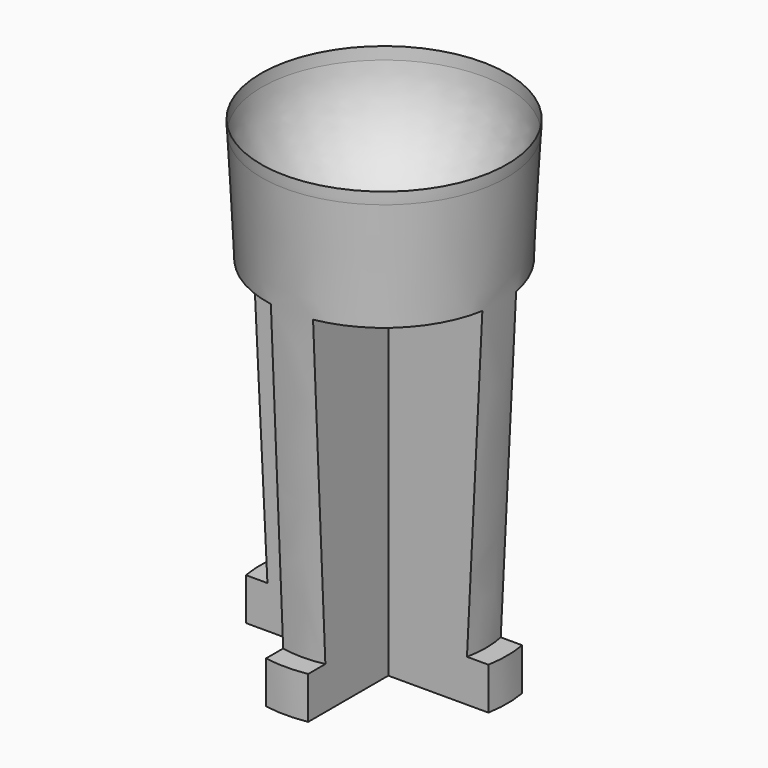
from build123d import *

# Parameters (mm, degrees)
F3_DEPTH = 25


with BuildPart() as f1:
    # F0 (on Front) → F1 (revolve)
    with BuildSketch(Plane.XZ):
        with BuildLine():
            Line((-8.708457, -0.851632), (-8.75, 0))
            ThreePointArc((-8.75, 0), (-8.739608, -0.426322), (-8.708457, -0.851632))
        make_face()
        with BuildLine():
            ThreePointArc((0, -8.75), (-5.878381, -6.481292), (-8.708457, -0.851632))
            Line((-8.708457, -0.851632), (-7.25, -30.75))
            Line((-7.25, -30.75), (0, -30.75))
            Line((0, -30.75), (0, -8.75))
        make_face()
        Polygon((0, -30.75), (-7.25, -30.75), (-8.75, -30.75), (-8.75, -33.75), (0, -33.75), align=None)
    revolve(axis=Axis((0, 0, -16.875), (0, 0, -1)))

    # F2 (on face) → F3 (cut)
    with BuildSketch(Plane(origin=(0, 0, -33.75), x_dir=(1, 0, 0), z_dir=(0, 0, -1))):
        with BuildLine():
            ThreePointArc((-1.5, 8.62047), (-6.283299, 6.283299), (-8.62047, 1.5))
            Line((-8.62047, 1.5), (-1.5, 1.5))
            Line((-1.5, 1.5), (-1.5, 8.62047))
        make_face()
        with BuildLine():
            Line((1.5, 1.5), (8.62047, 1.5))
            ThreePointArc((8.62047, 1.5), (6.25421, 6.25421), (1.5, 8.62047))
            Line((1.5, 8.62047), (1.5, 1.5))
        make_face()
        with BuildLine():
            ThreePointArc((1.5, -8.62047), (6.283299, -6.283299), (8.62047, -1.5))
            Line((8.62047, -1.5), (1.5, -1.5))
            Line((1.5, -1.5), (1.5, -8.62047))
        make_face()
        with BuildLine():
            Line((-1.5, -1.5), (-8.62047, -1.5))
            ThreePointArc((-8.62047, -1.5), (-6.243431, -6.243431), (-1.5, -8.62047))
            Line((-1.5, -8.62047), (-1.5, -1.5))
        make_face()
    extrude(amount=-F3_DEPTH, mode=Mode.SUBTRACT)


solid = f1.part
